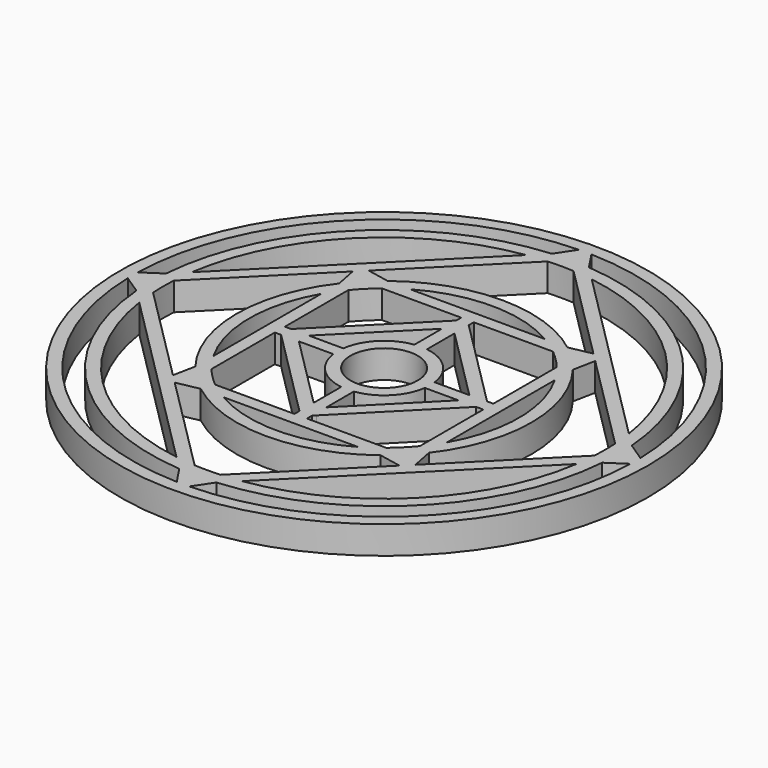
from build123d import *

# Parameters (mm, degrees)
F0_R     = 24.003
F0_R_2   = 3.054646
F1_DEPTH = 2.54


with BuildPart() as f1:
    # F0 (on Top) → F1 (new body)
    with BuildSketch(Plane.XY):
        Circle(F0_R)
        with BuildLine():
            ThreePointArc((1.17752, -20.066034), (0, -20.100554), (-1.17752, -20.066034))
            Line((-1.17752, -20.066034), (-10.217665, -11.025888))
            Line((-10.217665, -11.025888), (-8.177547, -10.621777))
            ThreePointArc((-8.177547, -10.621777), (0, -13.405015), (8.177547, -10.621777))
            Line((8.177547, -10.621777), (10.217665, -11.025888))
            Line((10.217665, -11.025888), (1.17752, -20.066034))
        make_face(mode=Mode.SUBTRACT)
        with BuildLine():
            ThreePointArc((-0.5715, -22.852855), (-16.164461, -16.164461), (-22.852855, -0.5715))
            Line((-22.852855, -0.5715), (-21.176763, -1.683237))
            ThreePointArc((-21.176763, -1.683237), (-15.021461, -15.021461), (-1.683237, -21.176763))
            Line((-1.683237, -21.176763), (-0.5715, -22.852855))
        make_face(mode=Mode.SUBTRACT)
        with BuildLine():
            Line((-19.87815, -2.98185), (-2.98185, -19.87815))
            ThreePointArc((-2.98185, -19.87815), (-14.213238, -14.213238), (-19.87815, -2.98185))
        make_face(mode=Mode.SUBTRACT)
        with BuildLine():
            ThreePointArc((-10.621777, -6.12657), (-12.262015, 0), (-10.621777, 6.12657))
            Line((-10.621777, 6.12657), (-10.621777, -6.12657))
        make_face(mode=Mode.SUBTRACT)
        with BuildLine():
            Line((-0.5715, -9.478777), (-7.778804, -9.478777))
            ThreePointArc((-7.778804, -9.478777), (-8.670554, -8.670554), (-9.478777, -7.778804))
            Line((-9.478777, -7.778804), (-9.478777, -0.5715))
            Line((-9.478777, -0.5715), (-8.907277, -0.5715))
            Line((-8.907277, -0.5715), (-7.645644, -1.833133))
            Line((-7.645644, -1.833133), (-1.833133, -7.645644))
            Line((-1.833133, -7.645644), (-0.808231, -8.670546))
            Line((-0.808231, -8.670546), (-0.5715, -8.907277))
            Line((-0.5715, -8.907277), (-0.5715, -9.478777))
        make_face(mode=Mode.SUBTRACT)
        with BuildLine():
            Line((-0.5715, -7.290831), (-7.290831, -0.5715))
            Line((-7.290831, -0.5715), (-4.15856, -0.5715))
            ThreePointArc((-4.15856, -0.5715), (-2.968184, -2.968184), (-0.5715, -4.15856))
            Line((-0.5715, -4.15856), (-0.5715, -7.290831))
        make_face(mode=Mode.SUBTRACT)
        with BuildLine():
            ThreePointArc((6.12657, -10.621777), (0, -12.262015), (-6.12657, -10.621777))
            Line((-6.12657, -10.621777), (6.12657, -10.621777))
        make_face(mode=Mode.SUBTRACT)
        with BuildLine():
            ThreePointArc((22.852855, -0.5715), (16.164461, -16.164461), (0.5715, -22.852855))
            Line((0.5715, -22.852855), (1.683237, -21.176763))
            ThreePointArc((1.683237, -21.176763), (15.021461, -15.021461), (21.176763, -1.683237))
            Line((21.176763, -1.683237), (22.852855, -0.5715))
        make_face(mode=Mode.SUBTRACT)
        with BuildLine():
            ThreePointArc((19.87815, -2.98185), (14.213238, -14.213238), (2.98185, -19.87815))
            Line((2.98185, -19.87815), (19.87815, -2.98185))
        make_face(mode=Mode.SUBTRACT)
        with BuildLine():
            Line((0.5715, -9.478777), (0.5715, -8.902199))
            Line((0.5715, -8.902199), (0.804649, -8.666979))
            Line((0.804649, -8.666979), (8.828836, -0.5715))
            Line((8.828836, -0.5715), (9.478777, -0.5715))
            Line((9.478777, -0.5715), (9.478777, -7.778804))
            ThreePointArc((9.478777, -7.778804), (8.670554, -8.670554), (7.778804, -9.478777))
            Line((7.778804, -9.478777), (0.5715, -9.478777))
        make_face(mode=Mode.SUBTRACT)
        with BuildLine():
            Line((7.219491, -0.5715), (0.5715, -7.278557))
            Line((0.5715, -7.278557), (0.5715, -4.15856))
            ThreePointArc((0.5715, -4.15856), (2.968184, -2.968184), (4.15856, -0.5715))
            Line((4.15856, -0.5715), (7.219491, -0.5715))
        make_face(mode=Mode.SUBTRACT)
        with BuildLine():
            ThreePointArc((20.066034, 1.17752), (20.100554, 0), (20.066034, -1.17752))
            Line((20.066034, -1.17752), (11.025888, -10.217665))
            Line((11.025888, -10.217665), (10.621777, -8.177547))
            ThreePointArc((10.621777, -8.177547), (13.405015, 0), (10.621777, 8.177547))
            Line((10.621777, 8.177547), (11.025888, 10.217665))
            Line((11.025888, 10.217665), (20.066034, 1.17752))
        make_face(mode=Mode.SUBTRACT)
        with BuildLine():
            ThreePointArc((-20.066034, -1.17752), (-20.100554, 0), (-20.066034, 1.17752))
            Line((-20.066034, 1.17752), (-11.025888, 10.217665))
            Line((-11.025888, 10.217665), (-10.621777, 8.177547))
            ThreePointArc((-10.621777, 8.177547), (-13.405015, 0), (-10.621777, -8.177547))
            Line((-10.621777, -8.177547), (-11.025888, -10.217665))
            Line((-11.025888, -10.217665), (-20.066034, -1.17752))
        make_face(mode=Mode.SUBTRACT)
        with BuildLine():
            Line((-7.294226, 0.568104), (-0.5715, 7.290831))
            Line((-0.5715, 7.290831), (-0.5715, 4.15856))
            ThreePointArc((-0.5715, 4.15856), (-2.971748, 2.964616), (-4.159921, 0.561506))
            Line((-4.159921, 0.561506), (-7.294226, 0.568104))
        make_face(mode=Mode.SUBTRACT)
        with BuildLine():
            ThreePointArc((-9.478777, 7.778804), (-8.670554, 8.670554), (-7.778804, 9.478777))
            Line((-7.778804, 9.478777), (-0.5715, 9.478777))
            Line((-0.5715, 9.478777), (-0.5715, 8.907277))
            Line((-0.5715, 8.907277), (-1.833133, 7.645644))
            Line((-1.833133, 7.645644), (-7.645644, 1.833133))
            Line((-7.645644, 1.833133), (-8.907277, 0.5715))
            Line((-8.907277, 0.5715), (-9.478777, 0.5715))
            Line((-9.478777, 0.5715), (-9.478777, 7.778804))
        make_face(mode=Mode.SUBTRACT)
        with BuildLine():
            Line((-2.98185, 19.87815), (-19.87815, 2.98185))
            ThreePointArc((-19.87815, 2.98185), (-14.213238, 14.213238), (-2.98185, 19.87815))
        make_face(mode=Mode.SUBTRACT)
        with BuildLine():
            ThreePointArc((-1.683237, 21.176763), (-15.021461, 15.021461), (-21.176763, 1.683237))
            Line((-21.176763, 1.683237), (-22.852855, 0.5715))
            ThreePointArc((-22.852855, 0.5715), (-16.164461, 16.164461), (-0.5715, 22.852855))
            Line((-0.5715, 22.852855), (-1.683237, 21.176763))
        make_face(mode=Mode.SUBTRACT)
        with BuildLine():
            Line((6.12657, 10.621777), (-6.12657, 10.621777))
            ThreePointArc((-6.12657, 10.621777), (0, 12.262015), (6.12657, 10.621777))
        make_face(mode=Mode.SUBTRACT)
        with BuildLine():
            ThreePointArc((-1.17752, 20.066034), (0, 20.100554), (1.17752, 20.066034))
            Line((1.17752, 20.066034), (10.217665, 11.025888))
            Line((10.217665, 11.025888), (8.177547, 10.621777))
            ThreePointArc((8.177547, 10.621777), (0, 13.405015), (-8.177547, 10.621777))
            Line((-8.177547, 10.621777), (-10.217665, 11.025888))
            Line((-10.217665, 11.025888), (-1.17752, 20.066034))
        make_face(mode=Mode.SUBTRACT)
        Circle(F0_R_2, mode=Mode.SUBTRACT)
        with BuildLine():
            Line((0.5715, 7.290831), (7.325001, 0.53733))
            Line((7.325001, 0.53733), (4.162248, 0.543987))
            ThreePointArc((4.162248, 0.543987), (2.977982, 2.958354), (0.5715, 4.15856))
            Line((0.5715, 4.15856), (0.5715, 7.290831))
        make_face(mode=Mode.SUBTRACT)
        with BuildLine():
            ThreePointArc((7.778804, 9.478777), (8.670554, 8.670554), (9.478777, 7.778804))
            Line((9.478777, 7.778804), (9.478777, 0.5715))
            Line((9.478777, 0.5715), (8.907277, 0.5715))
            Line((8.907277, 0.5715), (7.645644, 1.833133))
            Line((7.645644, 1.833133), (1.833133, 7.645644))
            Line((1.833133, 7.645644), (0.5715, 8.907277))
            Line((0.5715, 8.907277), (0.5715, 9.478777))
            Line((0.5715, 9.478777), (7.778804, 9.478777))
        make_face(mode=Mode.SUBTRACT)
        with BuildLine():
            ThreePointArc((10.621777, 6.12657), (12.262015, 0), (10.621777, -6.12657))
            Line((10.621777, -6.12657), (10.621777, 6.12657))
        make_face(mode=Mode.SUBTRACT)
        with BuildLine():
            Line((19.87815, 2.98185), (2.98185, 19.87815))
            ThreePointArc((2.98185, 19.87815), (14.213238, 14.213238), (19.87815, 2.98185))
        make_face(mode=Mode.SUBTRACT)
        with BuildLine():
            ThreePointArc((0.5715, 22.852855), (16.164461, 16.164461), (22.852855, 0.5715))
            Line((22.852855, 0.5715), (21.176763, 1.683237))
            ThreePointArc((21.176763, 1.683237), (15.021461, 15.021461), (1.683237, 21.176763))
            Line((1.683237, 21.176763), (0.5715, 22.852855))
        make_face(mode=Mode.SUBTRACT)
    extrude(amount=F1_DEPTH)


solid = f1.part
